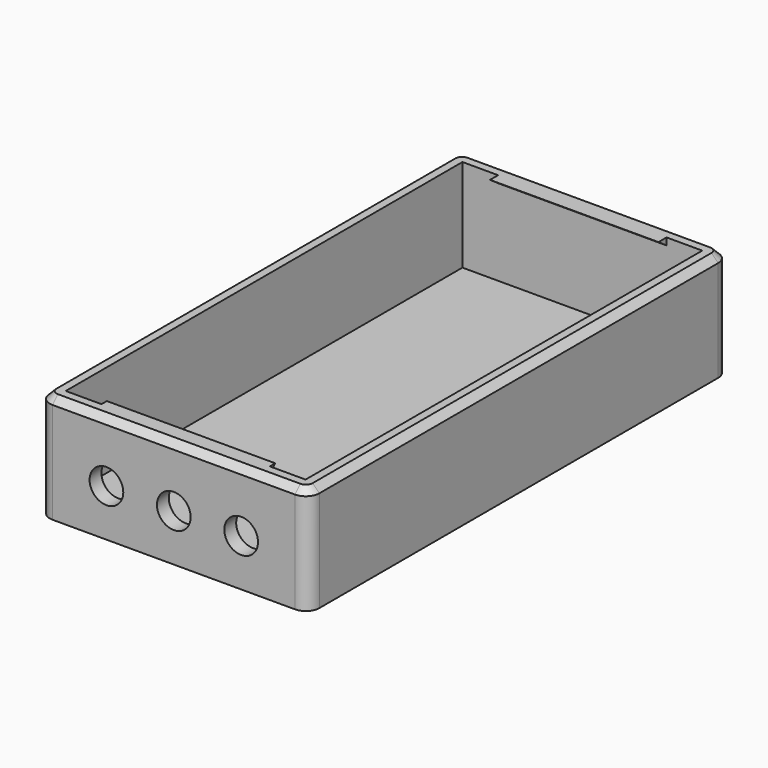
from build123d import *

# Parameters (mm, degrees)
F0_W     = 40
F0_H     = 78
F1_DEPTH = 16
F2_R     = 2
F3_T     = -2.2
F4_R     = 2.5
F5_DEPTH = 2.2
F7_DEPTH = 12.5
F8_SIZE  = 1


with BuildPart() as f1:
    # F0 (on Top) → F1 (new body)
    with BuildSketch(Plane.XY):
        Rectangle(F0_W, F0_H)
    extrude(amount=F1_DEPTH)

    # F2
    f2_edges = [f1.edges().sort_by_distance(p)[0] for p in [
        (-20, -39, 8),
        (20, -39, 8),
        (-20, 39, 8),
        (20, 39, 8),
    ]]
    fillet(f2_edges, radius=F2_R)

    # F3
    f3_openings = [f1.faces().sort_by_distance(p)[0] for p in [
        (0, 0, 16),
    ]]
    offset(amount=F3_T, openings=f3_openings)

    # F4 (on face) → F5 (cut, through all)
    with BuildSketch(Plane.XZ.offset(39)):
        with Locations((-10, 7)):
            Circle(F4_R)
        with Locations((0, 7)):
            Circle(F4_R)
        with Locations((10, 7)):
            Circle(F4_R)
    extrude(amount=-F5_DEPTH, mode=Mode.SUBTRACT)

    # F6 (on Right) → F7 (join, symmetric)
    with BuildSketch(Plane.YZ):
        Polygon((-36.8, 16), (-36.8, 15.1609003688), (-35.8, 16), align=None)
        Polygon((35.3, 16), (36.8, 14.9496886927), (36.8, 16), align=None)
    extrude(amount=F7_DEPTH, both=True)

    # F8
    f8_edges = [f1.edges().sort_by_distance(p)[0] for p in [
        (0, -39, 16),
    ]]
    chamfer(f8_edges, length=F8_SIZE)


solid = f1.part
